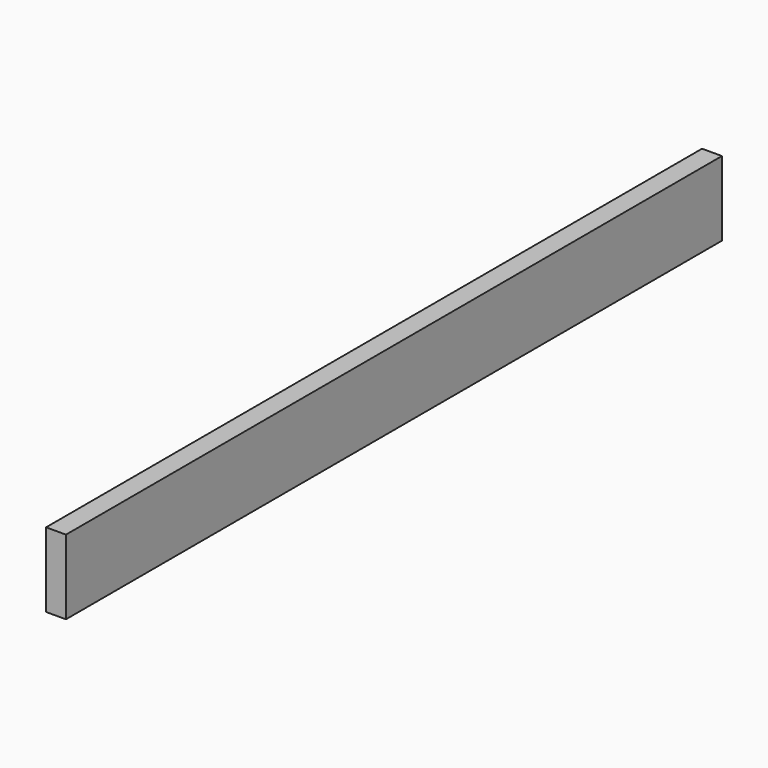
from build123d import *

# Parameters (mm, degrees)
PAD_DEPTH = 12


with BuildPart() as part:
    # Sketch → Pad (new body)
    with BuildSketch(Plane.YZ):
        Polygon((0, 0), (0, 45), (495, 45), (495, 0), (247.5, 0), align=None)
    extrude(amount=-PAD_DEPTH)


solid = part.part
